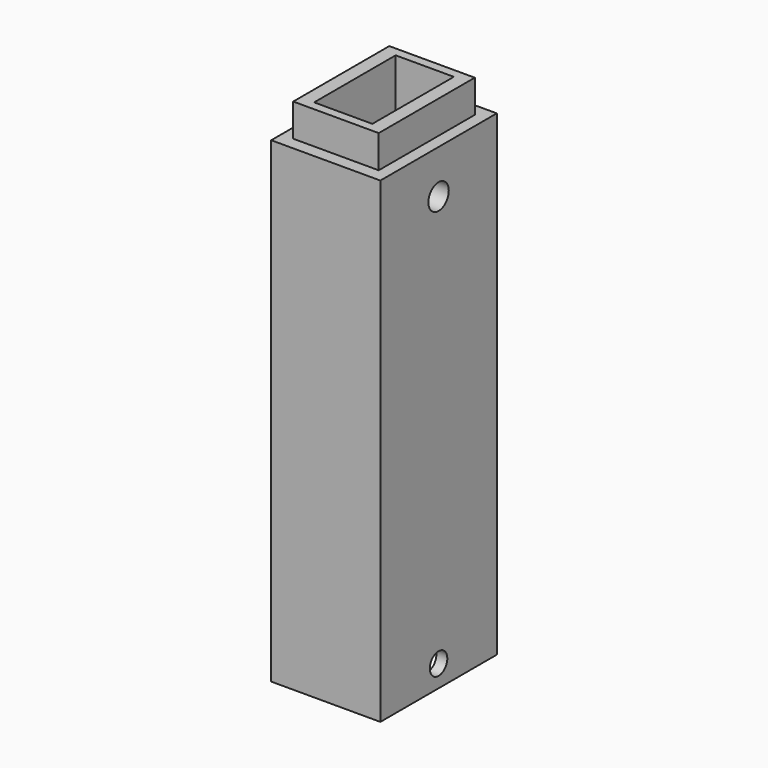
from build123d import *

# Parameters (mm, degrees)
F0_W     = 15
F0_H     = 20
F0_W_2   = 8
F0_H_2   = 14
F1_DEPTH = 70
F2_W     = 18.400512
F2_H     = 24.49468
F2_W_2   = 11.75
F2_H_2   = 16.5
F3_DEPTH = 4.5
F4_R     = 1.75
F4_R_2   = 1.5
F5_DEPTH = 25
F6_W     = 12
F6_H     = 16.75
F7_DEPTH = 5


with BuildPart() as f1:
    # F0 (on Top) → F1 (new body)
    with BuildSketch(Plane.XY):
        Rectangle(F0_W, F0_H)
        Rectangle(F0_W_2, F0_H_2, mode=Mode.SUBTRACT)
    extrude(amount=F1_DEPTH)

    # F2 (on face) → F3 (cut)
    with BuildSketch(Plane.XY.offset(70)):
        Rectangle(F2_W, F2_H)
        Rectangle(F2_W_2, F2_H_2, mode=Mode.SUBTRACT)
    extrude(amount=-F3_DEPTH, mode=Mode.SUBTRACT)

    # F4 (on face) → F5 (cut)
    with BuildSketch(Plane.YZ.offset(7.5)):
        with Locations((0, 59.5)):
            Circle(F4_R)
        with Locations((0, 3)):
            Circle(F4_R_2)
    extrude(amount=-F5_DEPTH, mode=Mode.SUBTRACT)

    # F6 (on face) → F7 (cut)
    with BuildSketch(Plane(origin=(0, 0, 0), x_dir=(1, 0, 0), z_dir=(0, 0, -1))):
        Rectangle(F6_W, F6_H)
    extrude(amount=-F7_DEPTH, mode=Mode.SUBTRACT)


solid = f1.part
